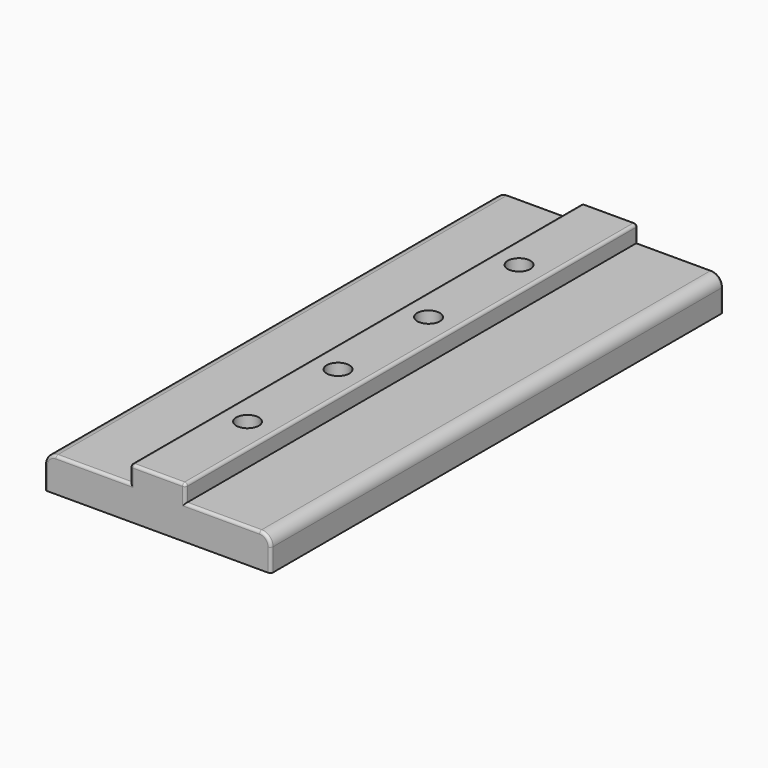
from build123d import *

# Parameters (mm, degrees)
F1_DEPTH = 100
F2_R     = 2
F3_DEPTH = 9
F4_R     = 0.5


with BuildPart() as f1:
    # F0 (on Front) → F1 (new body)
    with BuildSketch(Plane.XZ):
        with BuildLine():
            Line((-13.1858391894, 0), (26.8141608106, 0))
            Line((26.8141608106, 0), (26.8141608106, 4))
            ThreePointArc((26.8141608106, 4), (26.228374373, 5.4142135624), (24.8141608106, 6))
            Line((24.8141608106, 6), (11.6891608106, 6))
            Line((11.6891608106, 6), (11.6891608106, 8.5))
            ThreePointArc((11.6891608106, 8.5), (11.5427142012, 8.8535533906), (11.1891608106, 9))
            Line((11.1891608106, 9), (2.4391608106, 9))
            ThreePointArc((2.4391608106, 9), (2.08560742, 8.8535533906), (1.9391608106, 8.5))
            Line((1.9391608106, 8.5), (1.9391608106, 6))
            Line((1.9391608106, 6), (-11.1858391894, 6))
            ThreePointArc((-11.1858391894, 6), (-12.6000527518, 5.4142135624), (-13.1858391894, 4))
            Line((-13.1858391894, 4), (-13.1858391894, 0))
        make_face()
    extrude(amount=F1_DEPTH)

    # F2 (on face) → F3 (cut, through all)
    with BuildSketch(Plane.XY.offset(9)):
        with Locations((6.6891608106, -80)):
            Circle(F2_R)
        with Locations((6.6891608106, -60)):
            Circle(F2_R)
        with Locations((6.6891608106, -40)):
            Circle(F2_R)
        with Locations((6.6891608106, -20)):
            Circle(F2_R)
    extrude(amount=-F3_DEPTH, mode=Mode.SUBTRACT)

    # F4
    f4_edges = [f1.edges().sort_by_distance(p)[0] for p in [
        (18.251661, -100, 6),
        (6.814161, -100, 9),
        (-4.623339, -100, 6),
        (11.689161, -100, 7.25),
        (11.542714, -100, 8.853553),
        (2.085607, -100, 8.853553),
        (1.939161, -100, 7.25),
        (-13.185839, -100, 2),
        (-12.600053, -100, 5.414214),
        (26.228374, -100, 5.414214),
        (26.814161, -100, 2),
        (-13.185839, 0, 2),
        (-12.600053, 0, 5.414214),
        (1.939161, 0, 7.25),
        (2.085607, 0, 8.853553),
        (6.814161, 0, 9),
        (18.251661, 0, 6),
        (26.228374, 0, 5.414214),
    ]]
    fillet(f4_edges, radius=F4_R)


solid = f1.part
